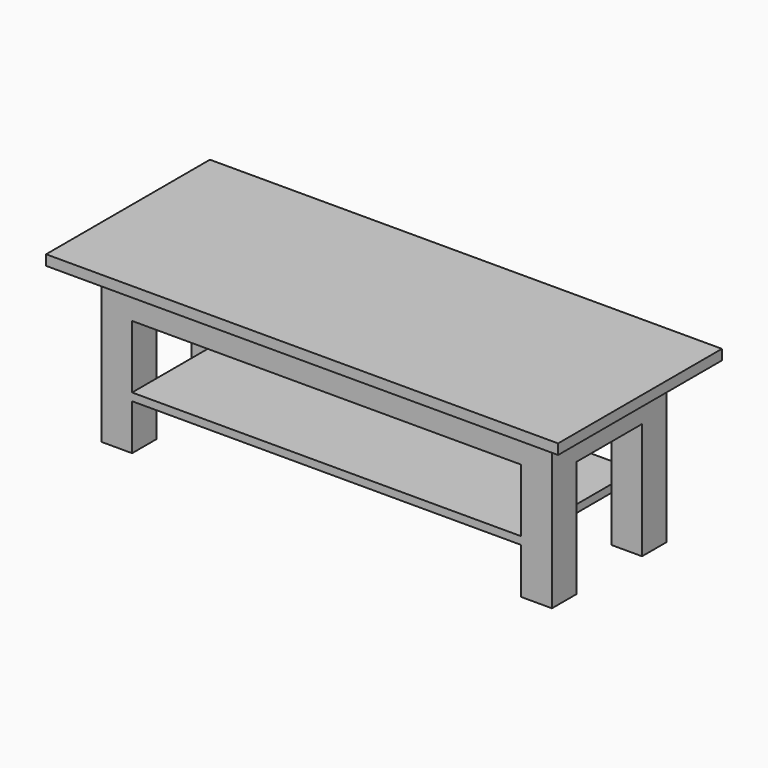
from build123d import *

# Parameters (mm, degrees)
F0_W     = 1270
F0_H     = 508
F1_DEPTH = 25.4
F2_W     = 1117.6
F2_H     = 355.6
F3_DEPTH = 101.6
F4_W     = 76.2
F4_H     = 76.2
F5_DEPTH = 288.925
F6_W     = 355.6
F6_H     = 19.05
F7_DEPTH = 965.2


with BuildPart() as f1:
    # F0 (on Top) → F1 (new body)
    with BuildSketch(Plane.XY):
        Rectangle(F0_W, F0_H)
    extrude(amount=F1_DEPTH)

    # F2 (on face) → F3 (join)
    with BuildSketch(Plane(origin=(0, 0, 0), x_dir=(1, 0, 0), z_dir=(0, 0, -1))):
        Rectangle(F2_W, F2_H)
    extrude(amount=F3_DEPTH)

    # F4 (on face) → F5 (join)
    with BuildSketch(Plane(origin=(0, 0, -101.6), x_dir=(1, 0, 0), z_dir=(0, 0, -1))):
        with Locations((-520.7, 139.7)):
            Rectangle(F4_W, F4_H)
        with Locations((-520.7, -139.7)):
            Rectangle(F4_W, F4_H)
        with Locations((520.7, 139.7)):
            Rectangle(F4_W, F4_H)
        with Locations((520.7, -139.7)):
            Rectangle(F4_W, F4_H)
    extrude(amount=F5_DEPTH)

    # F6 (on face) → F7 (join, through all)
    with BuildSketch(Plane.YZ.offset(-482.6)):
        with Locations((0, -267.423869)):
            Rectangle(F6_W, F6_H)
    extrude(amount=F7_DEPTH)


solid = f1.part
